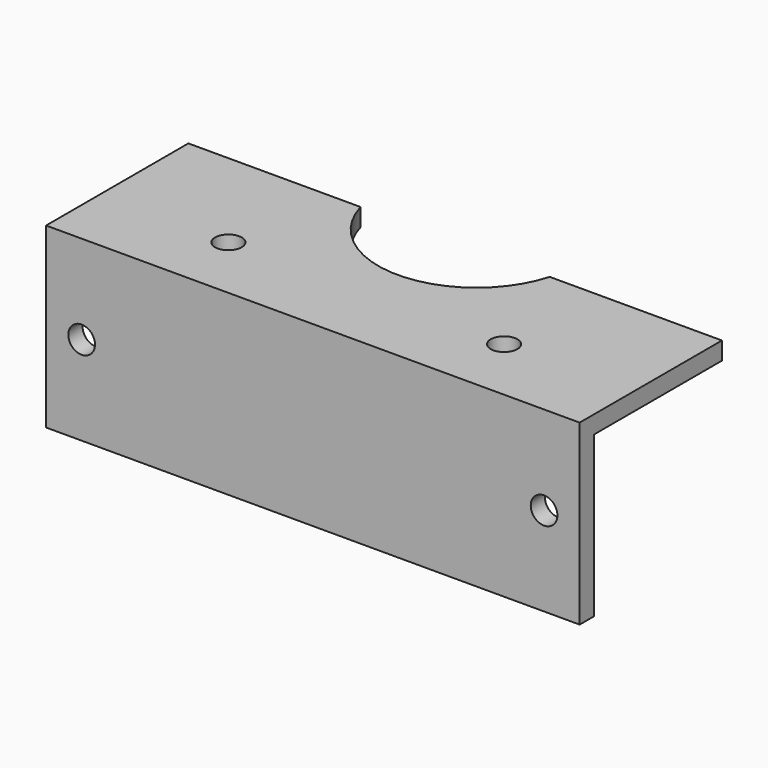
from build123d import *

# Parameters (mm, degrees)
PAD_DEPTH             = 30
PAD_DEPTH_BACK        = 30
SKETCH001_R           = 11.05
SKETCH001_R_2         = 1.5
POCKET_DEPTH          = 5.54
SKETCH002_R           = 1.5
POCKET001_DEPTH       = 20.001
CLONE_PLACEMENT_ANGLE = 270


with BuildPart() as part:
    # Sketch → Pad (new body, two sides)
    with BuildSketch(Plane.XZ) as pad_sk:
        Polygon((-10, -20), (-10, 0), (10, 0), (10, -2), (-8, -2), (-8, -20), align=None)
    extrude(amount=PAD_DEPTH)
    extrude(pad_sk.sketch, amount=-PAD_DEPTH_BACK)

    # Sketch001 (on Face4 of Pad) → Pocket (cut)
    with BuildSketch(Plane(origin=(13, 0, -2), x_dir=(1, 0, 0), z_dir=(0, 0, -1))):
        Circle(SKETCH001_R)
        with Locations((-15.5, 15.5)):
            Circle(SKETCH001_R_2)
        with Locations((15.5, 15.5)):
            Circle(SKETCH001_R_2)
        with Locations((15.5, -15.5)):
            Circle(SKETCH001_R_2)
        with Locations((-15.5, -15.5)):
            Circle(SKETCH001_R_2)
    extrude(amount=-POCKET_DEPTH, mode=Mode.SUBTRACT)

    # Sketch002 (on Face1 of Pocket) → Pocket001 (cut, through all)
    with BuildSketch(Plane(origin=(-10, 0, 0), x_dir=(0, 0, -1), z_dir=(-1, 0, 0))):
        with Locations((10, 26)):
            Circle(SKETCH002_R)
        with Locations((10, -26)):
            Circle(SKETCH002_R)
    extrude(amount=-POCKET001_DEPTH, mode=Mode.SUBTRACT)


with BuildPart() as part_1:
    # Clone placement: moved
    add(part.part.moved(Location((0, 10, 0))).rotate(Axis((0, 10, 0), (0, 0, -1)), CLONE_PLACEMENT_ANGLE))


solid = part_1.part
